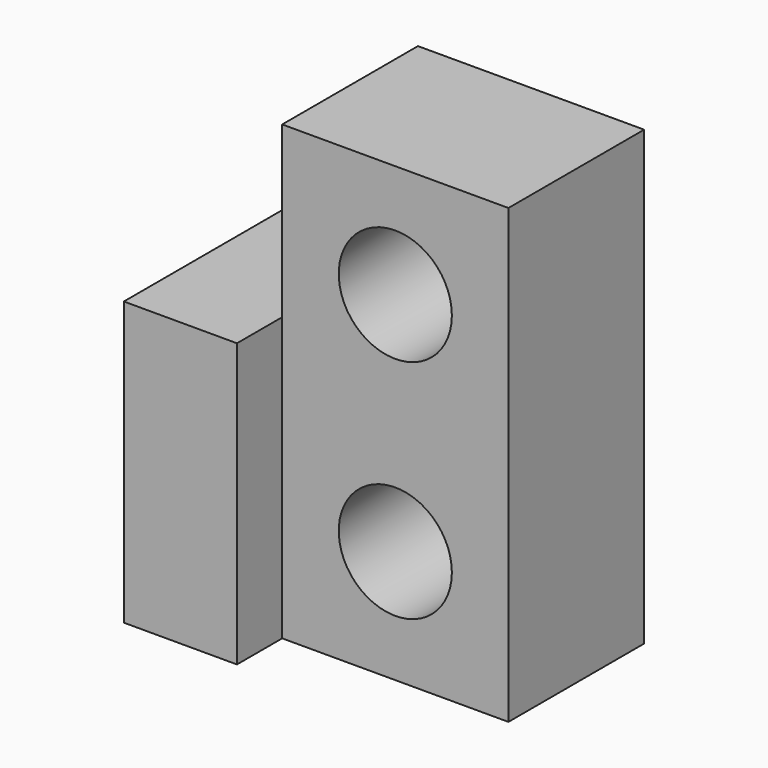
from build123d import *

# Parameters (mm, degrees)
F0_W     = 20
F0_H     = 40
F2_DEPTH = 15
F1_W     = 10
F1_H     = 25
F3_DEPTH = 20
F4_R     = 5
F5_DEPTH = 15


with BuildPart() as f2:
    # F0 (on Front) → F2 (new body)
    with BuildSketch(Plane.XZ):
        Rectangle(F0_W, F0_H)
    extrude(amount=F2_DEPTH)

    # F1 (on Front) → F3 (join)
    with BuildSketch(Plane.XZ):
        with Locations((-15, -7.5)):
            Rectangle(F1_W, F1_H)
    extrude(amount=F3_DEPTH)

    # F4 (on face) → F5 (cut)
    with BuildSketch(Plane.XZ.offset(15)):
        with Locations((0, 10)):
            Circle(F4_R)
        with Locations((0, -10)):
            Circle(F4_R)
    extrude(amount=-F5_DEPTH, mode=Mode.SUBTRACT)


solid = f2.part
